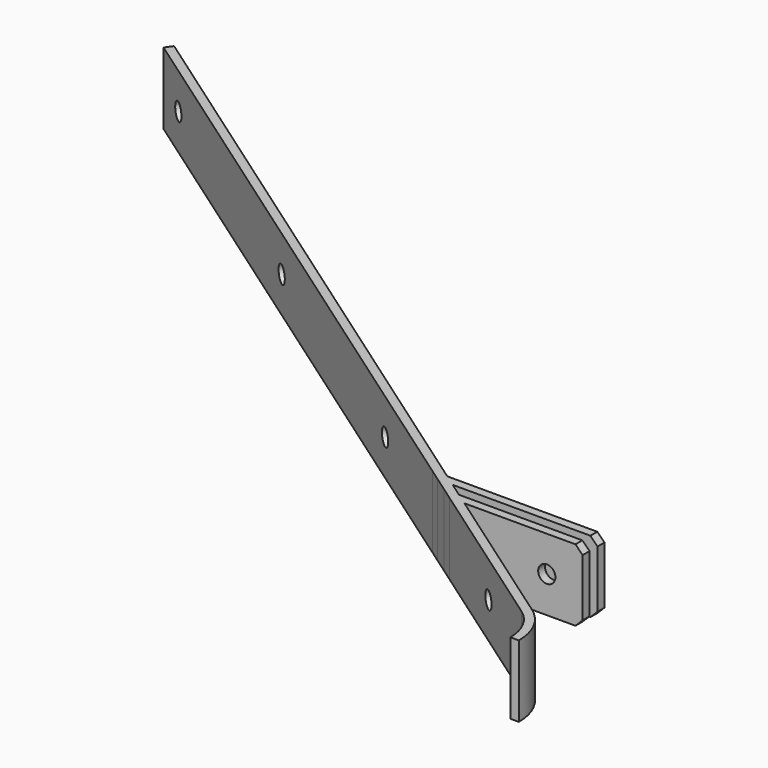
from build123d import *

# Parameters (mm, degrees)
PAD_DEPTH              = 50
PAD001_DEPTH           = 50
SKETCH002_R            = 6
POCKET_DEPTH           = 30
SKETCH015_R            = 6
POCKET005_DEPTH        = 354.1406188228
LINEARPATTERN003_COUNT = 4
LINEARPATTERN003_PITCH = 200
CHAMFER_SIZE           = 5


with BuildPart() as part:
    # Sketch → Pad (new body)
    with BuildSketch(Plane.XY):
        with BuildLine():
            Line((-547.6857118143, 425), (19.5015988359, 27.8511695058))
            ThreePointArc((34, 0), (30.1583683281, 15.69945285), (19.5015988359, 27.8511695058))
            Line((40, 0), (34, 0))
            ThreePointArc((40, 0), (35.4804333271, 18.4699445294), (22.943057454, 32.7660817716))
            Line((22.943057454, 32.7660817716), (-544.2442531962, 429.9149122657))
            Line((-544.2442531962, 429.9149122657), (-547.6857118143, 425))
        make_face()
    extrude(amount=PAD_DEPTH)

    # Sketch001 → Pad001 (join)
    with BuildSketch(Plane.XY):
        Polygon((-94.6057566753, 107.75), (-103.1746447158, 113.75), (-1.7405688034, 113.75), (-1.7405688034, 107.75), align=None)
        Polygon((-113.171680763, 120.75), (-121.7405688034, 126.75), (-1.7405688034, 126.75), (-1.7405688034, 120.75), align=None)
    extrude(amount=PAD001_DEPTH)

    # Sketch002 → Pocket (cut)
    with BuildSketch(Plane(origin=(0, 126.75, 0), x_dir=(-1, 0, 0), z_dir=(0, 1, 0))):
        with Locations((26.7405688034, 25.24131)):
            Circle(SKETCH002_R)
    extrude(amount=-POCKET_DEPTH, mode=Mode.SUBTRACT)

    # Sketch015 (on Face2 of LinearPattern) → Pocket005 (cut, through all)
    with BuildSketch(Plane(origin=(22.943057454, 32.7660817716, 0), x_dir=(-0.8191520443, 0.5735764364, 0), z_dir=(0.5735764364, 0.8191520443, 0))):
        with Locations((663.8389678693, 25)):
            Circle(SKETCH015_R)
    pocket005 = extrude(amount=-POCKET005_DEPTH, mode=Mode.SUBTRACT)

    # LinearPattern003: Pocket005 ×4
    with Locations(*[Vector(0.8191520443, -0.5735764364, 0) * (i * LINEARPATTERN003_PITCH) for i in range(1, LINEARPATTERN003_COUNT)]):
        add(pocket005, mode=Mode.SUBTRACT)

    # Chamfer
    chamfer_edges = [part.edges().sort_by_distance(p)[0] for p in [
        (-1.740569, 123.75, 50),
        (-1.740569, 123.75, 0),
        (-1.740569, 110.75, 0),
        (-1.740569, 110.75, 50),
    ]]
    chamfer(chamfer_edges, length=CHAMFER_SIZE)


solid = part.part
